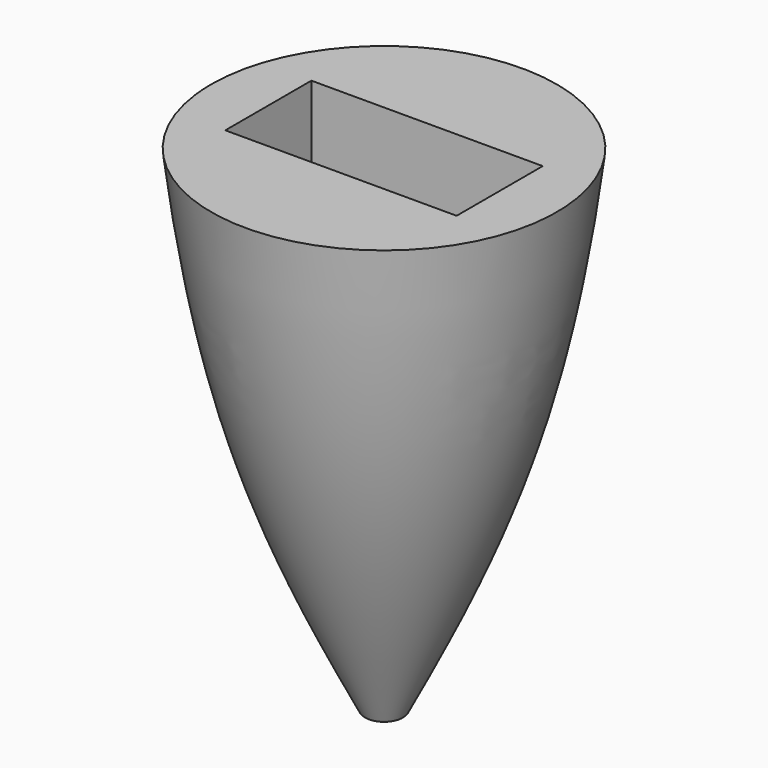
from build123d import *

# Parameters (mm, degrees)
F3_DEPTH  = 5
F5_DEPTH  = 15
F6_W      = 2
F6_H      = 3
F7_DEPTH  = 20.5
F8_W      = 3
F8_H      = 1
F9_DEPTH  = 17.5068136575
F10_R     = 0.3
F11_R     = 0.1
F12_R     = 0.1
F13_W     = 100
F13_H     = 100
F14_DEPTH = 62.0010001


with BuildPart() as f2:
    # F1 (on Front) → F2 (revolve)
    with BuildSketch(Plane.XZ):
        with BuildLine():
            Line((-2, 62), (-10, 62))
            add(Edge.make_bspline(
                [(-10, 62), (-11.8174263966, 57.1809415466), (-15.8594861297, 46.4373198499), (-18.6273544316, 24.5459471202), (-15.0414654734, -19.3469968059), (-5.4834802074, -38.7438846901), (-1.25, -47.0509425635)],
                knots=[0, 0, 0, 0, 0.1886807773, 0.4119593541, 0.7294893705, 0.9757699691, 0.9757699691, 0.9757699691, 0.9757699691], degree=3))
            Line((-1.25, -47.0509425635), (-1.25, -43.0509425635))
            Line((-1.25, -43.0509425635), (-1.75, -43.0509425635))
            Line((-1.75, -43.0509425635), (-1.75, -19.5))
            Line((-1.75, -19.5), (0, -19.5))
            Line((0, -19.5), (0, 47))
            Line((0, 47), (0, 50))
            Line((0, 50), (-2, 50))
            Line((-2, 50), (-2, 62))
        make_face()
    revolve(axis=Axis((0, 0, 54.5), (0, 0, 1)))

    # F0 (on Front) → F3 (cut, symmetric)
    with BuildSketch(Plane.XZ):
        Polygon((-10.75, -19.5), (10.75, -19.5), (10.75, 44.5), (9, 44.5), (9, 50.5), (-9, 50.5), (-9, 44.5), (-10.75, 44.5), align=None)
    extrude(amount=F3_DEPTH, both=True, mode=Mode.SUBTRACT)

    # F4 (on face) → F5 (cut)
    with BuildSketch(Plane.XY.offset(62)):
        Polygon((1.2421649551, -1.9468845774), (2.3071339798, 0.1023041181), (1.0649690247, 2.0491886955), (-1.2421649551, 1.9468845774), (-2.3071339798, -0.1023041181), (-1.0649690247, -2.0491886955), align=None)
    extrude(amount=-F5_DEPTH, mode=Mode.SUBTRACT)

    # F6 (on Right) → F7 (cut, symmetric)
    with BuildSketch(Plane.YZ):
        with Locations((-0.8976958819, 48.5)):
            Rectangle(F6_W, F6_H)
    extrude(amount=F7_DEPTH, both=True, mode=Mode.SUBTRACT)

    # F8 (on Front) → F9 (cut, through all)
    with BuildSketch(Plane.XZ):
        with Locations((0, 41.5)):
            Rectangle(F8_W, F8_H)
    extrude(amount=F9_DEPTH, mode=Mode.SUBTRACT)

    # F10
    f10_edges = [f2.edges().sort_by_distance(p)[0] for p in [
        (1.25, 0, -47.050943),
    ]]
    fillet(f10_edges, radius=F10_R)

    # F11
    f11_edges = [f2.edges().sort_by_distance(p)[0] for p in [
        (1.25, 0, -43.050943),
    ]]
    fillet(f11_edges, radius=F11_R)

    # F12
    f12_edges = [f2.edges().sort_by_distance(p)[0] for p in [
        (1.75, 0, -43.050943),
    ]]
    fillet(f12_edges, radius=F12_R)

    # F13 (on Top) → F14 (cut, through all)
    with BuildSketch(Plane.XY):
        Rectangle(F13_W, F13_H)
    extrude(amount=F14_DEPTH, mode=Mode.SUBTRACT)


solid = f2.part
